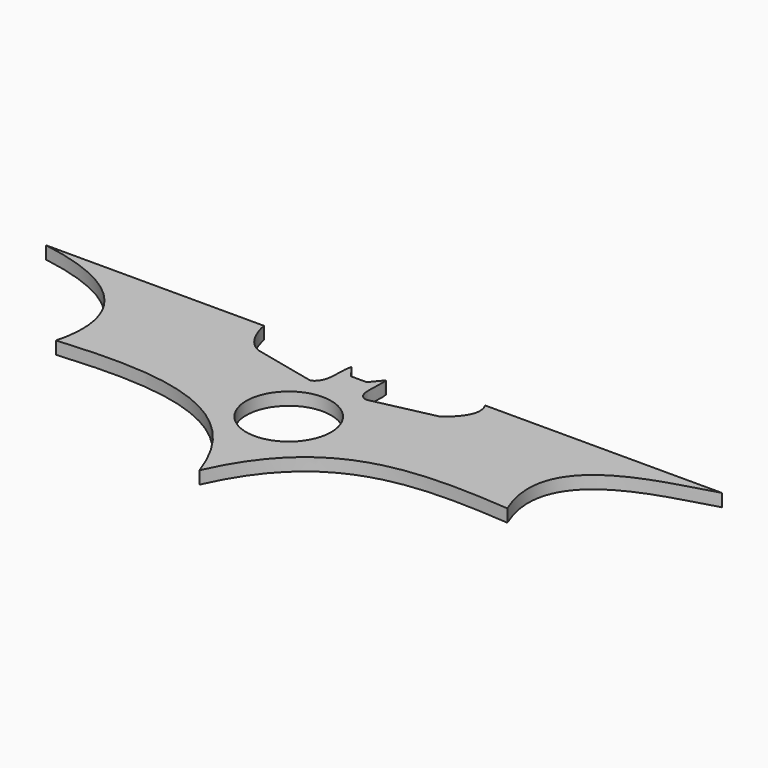
from build123d import *

# Parameters (mm, degrees)
F2_DEPTH = 1
F3_T     = -1
F4_R     = 3.349925
F5_DEPTH = 25.4


with BuildPart() as f2:
    # F1 (on Top) → F2 (new body)
    with BuildSketch(Plane.XY):
        with BuildLine():
            Line((13.80021, -11.290746), (9.102559, -10.212597))
            add(Edge.make_bspline(
                [(9.102559, -10.212597), (8.142358, -10.075296), (7.32683, -8.968351), (6.992009, -7.368016)],
                knots=[0, 0, 0, 0, 3.542042, 3.542042, 3.542042, 3.542042], degree=3))
            Line((6.992009, -7.368016), (-10.196833, -7.368016))
            add(Edge.make_bspline(
                [(-10.196833, -7.368016), (-1.683224, -8.74827), (-0.829401, -13.403604), (-1.790936, -16.902696)],
                knots=[0, 0, 0, 0, 12.710989, 12.710989, 12.710989, 12.710989], degree=3))
            add(Edge.make_bspline(
                [(-1.790936, -16.902696), (5.33876, -16.336972), (13.023932, -16.339568), (15.948245, -24.916124)],
                knots=[0, 0, 0, 0, 19.465189, 19.465189, 19.465189, 19.465189], degree=3))
            add(Edge.make_bspline(
                [(15.948245, -24.916124), (19.640299, -16.68267), (25.902187, -16.389608), (33.941839, -17.028365)],
                knots=[0, 0, 0, 0, 19.64653, 19.64653, 19.64653, 19.64653], degree=3))
            add(Edge.make_bspline(
                [(33.941839, -17.028365), (30.768488, -9.431371), (40.071145, -8.176144), (42.985801, -7.154439)],
                knots=[0, 0, 0, 0, 13.389834, 13.389834, 13.389834, 13.389834], degree=3))
            Line((42.985801, -7.154439), (24.282036, -7.154439))
            add(Edge.make_bspline(
                [(24.282036, -7.154439), (24.807367, -8.005574), (24.392679, -9.044486), (23.041492, -10.058575)],
                knots=[0, 0, 0, 0, 3.157999, 3.157999, 3.157999, 3.157999], degree=3))
            Line((23.041492, -10.058575), (18.112808, -11.136725))
            add(Edge.make_bspline(
                [(18.112808, -11.136725), (16.990187, -10.975688), (17.650745, -9.288468), (17.419713, -8.36434)],
                knots=[0, 0, 0, 0, 2.857708, 2.857708, 2.857708, 2.857708], degree=3))
            Line((17.419713, -8.36434), (16.649606, -9.288468))
            Line((16.649606, -9.288468), (15.417434, -9.288468))
            Line((15.417434, -9.288468), (14.647327, -8.28733))
            add(Edge.make_bspline(
                [(14.647327, -8.28733), (14.364955, -9.288469), (14.845224, -10.811385), (13.80021, -11.290746)],
                knots=[0, 0, 0, 0, 3.120595, 3.120595, 3.120595, 3.120595], degree=3))
        make_face()
    extrude(amount=F2_DEPTH)

    # F3
    f3_openings = [f2.faces().sort_by_distance(p)[0] for p in [
        (16.284264, -13.143968, 1),
    ]]
    offset(amount=F3_T, openings=f3_openings)

    # F4 (on face) → F5 (cut)
    with BuildSketch(Plane.XY.offset(1)):
        with Locations((15.764091, -15.87615)):
            Circle(F4_R)
    extrude(amount=-F5_DEPTH, mode=Mode.SUBTRACT)


solid = f2.part
